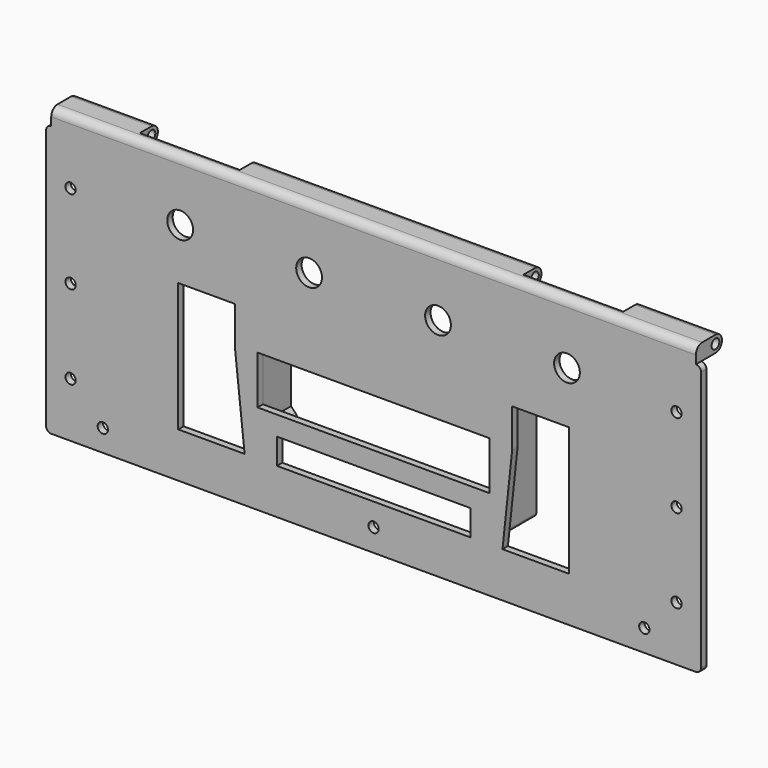
from build123d import *

# Parameters (mm, degrees)
SKETCH006_R             = 4
SKETCH006_W             = 72
SKETCH006_H             = 15
SKETCH006_W_2           = 60
SKETCH006_H_2           = 8
PAD002_DEPTH            = 2.1
SKETCH010_R             = 1.6
POCKET004_DEPTH         = 5
SKETCH012_R             = 1.05
PAD004_DEPTH            = 11
SKETCH018_W             = 200
SKETCH018_H             = 5
PAD009_DEPTH            = 8
SKETCH019_W             = 31
SKETCH019_H             = 10
POCKET_DEPTH            = 5
SKETCH020_R             = 1.5
POCKET007_DEPTH         = 195
FILLET009_R             = 2.45
BODY002_PLACEMENT_ANGLE = 180


with BuildPart() as part:
    # Sketch006 → Pad002 (new body)
    with BuildSketch(Plane.XZ):
        with BuildLine():
            Line((-100, 0), (100, 0))
            ThreePointArc((101.6, -1.6), (101.131371, -0.468629), (100, 0))
            Line((101.6, -1.6), (101.6, -82.4))
            ThreePointArc((100, -84), (101.131371, -83.531371), (101.6, -82.4))
            Line((100, -89), (100, -84))
            Line((-100, -89), (100, -89))
            Line((-100, -84), (-100, -89))
            ThreePointArc((-101.6, -82.4), (-101.131371, -83.531371), (-100, -84))
            Line((-101.6, -1.6), (-101.6, -82.4))
            ThreePointArc((-100, 0), (-101.131371, -0.468629), (-101.6, -1.6))
        make_face()
        with Locations((-20, -70)):
            Circle(SKETCH006_R, mode=Mode.SUBTRACT)
        with Locations((20, -70)):
            Circle(SKETCH006_R, mode=Mode.SUBTRACT)
        with Locations((60, -70)):
            Circle(SKETCH006_R, mode=Mode.SUBTRACT)
        with Locations((-60, -70)):
            Circle(SKETCH006_R, mode=Mode.SUBTRACT)
        with Locations((0, -35.5)):
            Rectangle(SKETCH006_W, SKETCH006_H, mode=Mode.SUBTRACT)
        Polygon((-60.6, -14), (-60.6, -54), (-43, -54), (-43, -42), (-40, -14), align=None, mode=Mode.SUBTRACT)
        Polygon((40, -14), (60.6, -14), (60.6, -54), (43, -54), (43, -42), align=None, mode=Mode.SUBTRACT)
        with Locations((0, -18)):
            Rectangle(SKETCH006_W_2, SKETCH006_H_2, mode=Mode.SUBTRACT)
    extrude(amount=PAD002_DEPTH)

    # Sketch010 → Pocket004 (cut)
    with BuildSketch(Plane.XZ.offset(2.1)):
        with Locations((-84, -6.8)):
            Circle(SKETCH010_R)
        with Locations((84, -6.8)):
            Circle(SKETCH010_R)
        with Locations((94, -17)):
            Circle(SKETCH010_R)
        with Locations((94, -69)):
            Circle(SKETCH010_R)
        with Locations((-94, -69)):
            Circle(SKETCH010_R)
        with Locations((-94, -17)):
            Circle(SKETCH010_R)
        with Locations((0, -7)):
            Circle(SKETCH010_R)
        with Locations((-94, -43)):
            Circle(SKETCH010_R)
        with Locations((94, -43)):
            Circle(SKETCH010_R)
    extrude(amount=-POCKET004_DEPTH, mode=Mode.SUBTRACT)

    # Sketch012 → Pad004 (join)
    with BuildSketch(Plane.ZX):
        with BuildLine():
            Line((-52.5, 40), (-18.5, 40))
            ThreePointArc((-17.5, 39), (-17.792893, 39.707107), (-18.5, 40))
            Line((-17.5, 39), (-17.5, 36.5))
            ThreePointArc((-21.682412, 34.767588), (-19.012426, 34.236495), (-17.5, 36.5))
            Line((-21.682412, 34.767588), (-23, 36.085177))
            Line((-48, 36.085177), (-23, 36.085177))
            Line((-49.317588, 34.767588), (-48, 36.085177))
            ThreePointArc((-53.5, 36.5), (-51.987574, 34.236495), (-49.317588, 34.767588))
            Line((-53.5, 39), (-53.5, 36.5))
            ThreePointArc((-52.5, 40), (-53.207107, 39.707107), (-53.5, 39))
        make_face()
        with Locations((-20, 37.5)):
            Circle(SKETCH012_R, mode=Mode.SUBTRACT)
        with Locations((-51, 37.5)):
            Circle(SKETCH012_R, mode=Mode.SUBTRACT)
        with BuildLine():
            Line((-52.5, -40), (-18.5, -40))
            ThreePointArc((-18.5, -40), (-17.792893, -39.707107), (-17.5, -39))
            Line((-17.5, -39), (-17.5, -36.5))
            ThreePointArc((-17.5, -36.5), (-19.012426, -34.236495), (-21.682412, -34.767588))
            Line((-23, -36.085177), (-21.682412, -34.767588))
            Line((-48, -36.085177), (-23, -36.085177))
            Line((-49.317588, -34.767588), (-48, -36.085177))
            ThreePointArc((-49.317588, -34.767588), (-51.987574, -34.236495), (-53.5, -36.5))
            Line((-53.5, -39), (-53.5, -36.5))
            ThreePointArc((-53.5, -39), (-53.207107, -39.707107), (-52.5, -40))
        make_face()
        with Locations((-51, -37.5)):
            Circle(SKETCH012_R, mode=Mode.SUBTRACT)
        with Locations((-20, -37.5)):
            Circle(SKETCH012_R, mode=Mode.SUBTRACT)
    extrude(amount=PAD004_DEPTH)

    # Sketch018 (on Face4 of Pad004) → Pad009 (join)
    with BuildSketch(Plane(origin=(0, 0, 0), x_dir=(1, 0, 0), z_dir=(0, 1, 0))):
        with Locations((0, 86.5)):
            Rectangle(SKETCH018_W, SKETCH018_H)
    extrude(amount=PAD009_DEPTH)

    # Sketch019 (on Face74 of Pad009) → Pocket (cut)
    with BuildSketch(Plane(origin=(0, 0, -89), x_dir=(1, 0, 0), z_dir=(0, 0, -1))):
        with Locations((-59.5, -6)):
            Rectangle(SKETCH019_W, SKETCH019_H)
        with Locations((59.5, -6)):
            Rectangle(SKETCH019_W, SKETCH019_H)
    extrude(amount=-POCKET_DEPTH, mode=Mode.SUBTRACT)

    # Sketch020 (on Face62 of Pocket) → Pocket007 (cut)
    with BuildSketch(Plane(origin=(-100, 0, 0), x_dir=(0, 0, -1), z_dir=(-1, 0, 0))):
        with Locations((86.5, -5.5)):
            Circle(SKETCH020_R)
    extrude(amount=-POCKET007_DEPTH, mode=Mode.SUBTRACT)

    # Fillet009
    fillet009_edges = [part.edges().sort_by_distance(p)[0] for p in [
        (87.5, 8, -89),
        (87.5, 8, -84),
        (0, -2.1, -89),
        (0, 8, -89),
        (0, 8, -84),
        (-87.5, 8, -89),
        (-87.5, 8, -84),
    ]]
    fillet(fillet009_edges, radius=FILLET009_R)


with BuildPart() as part_1:
    # Body002 placement: moved
    add(part.part.moved(Location((0, -89.1, 0))).rotate(Axis((0, -89.1, 0), (0, 1, 0)), BODY002_PLACEMENT_ANGLE))


solid = part_1.part
